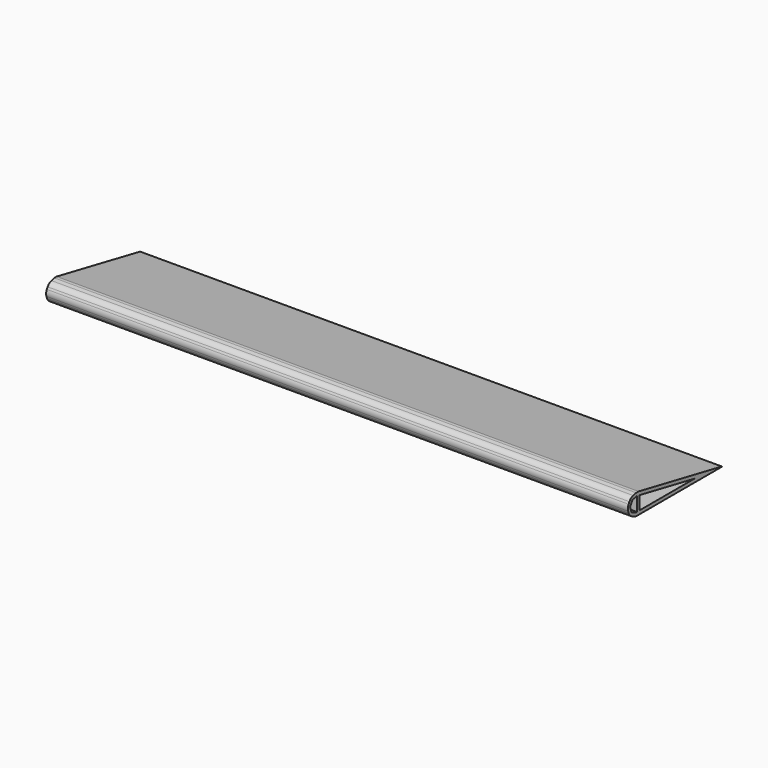
from build123d import *

# Parameters (mm, degrees)
F1_DEPTH = 800
F2_R     = 10
F3_R     = 0.2


with BuildPart() as f1:
    # F0 (on Right) → F1 (new body)
    with BuildSketch(Plane.YZ):
        Polygon((100.824344, 4.7625), (125.181556, 0), (150, 0), (2.787639, 28.784037), (1.873746, 24.110044), (6.636246, 23.178845), align=None)
        Polygon((0, 4.7625), (0, 0), (125.181556, 0), (100.824344, 4.7625), (6.636246, 4.7625), (1.873746, 4.7625), align=None)
        Polygon((1.873746, 24.110044), (1.873746, 4.7625), (6.636246, 4.7625), (6.636246, 23.178845), align=None)
        Polygon((1.873746, 24.110044), (2.787639, 28.784037), (-8.682065, 26.173362), (-5.835444, 22.355227), align=None)
        Polygon((-10.756327, 4.761424), (0, 0), (0, 4.7625), (-7.229277, 7.963836), align=None)
        Polygon((-14.458972, 15.926554), (-10.756327, 4.761424), (-7.229277, 7.963836), (-9.718587, 15.468123), align=None)
        Polygon((-8.682065, 26.173362), (-14.458972, 15.926554), (-9.718587, 15.468123), (-5.835444, 22.355227), align=None)
    extrude(amount=F1_DEPTH)

    # F2
    f2_edges = [f1.edges().sort_by_distance(p)[0] for p in [
        (400, -8.682065, 26.173362),
        (400, -14.458972, 15.926554),
        (400, 2.787639, 28.784037),
        (400, -10.756327, 4.761424),
        (400, 0, 0),
    ]]
    fillet(f2_edges, radius=F2_R)

    # F3
    f3_edges = [f1.edges().sort_by_distance(p)[0] for p in [
        (400, 150, 0),
    ]]
    fillet(f3_edges, radius=F3_R)


solid = f1.part
